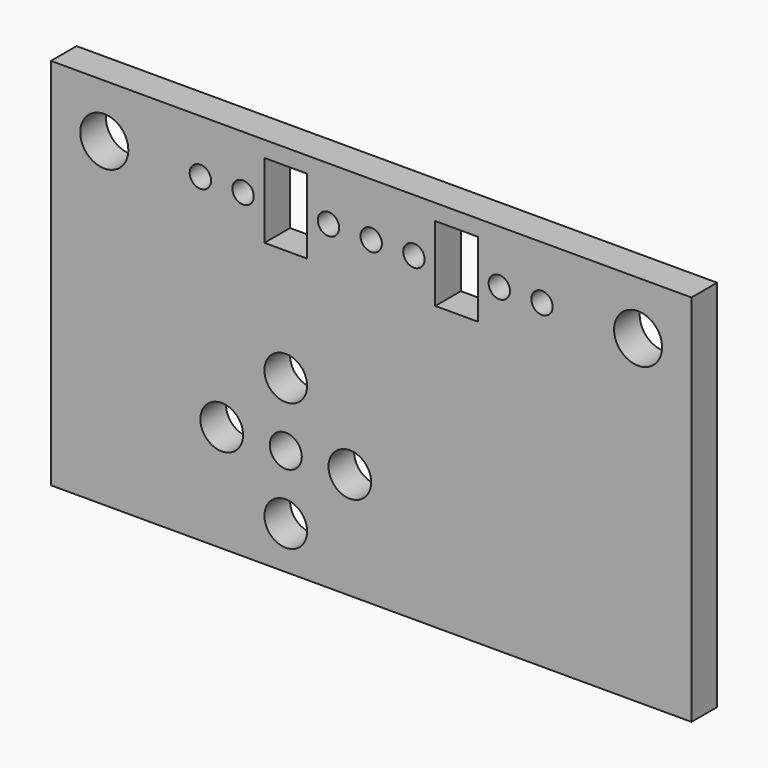
from build123d import *

# Parameters (mm, degrees)
SKETCH_W      = 60
SKETCH_H      = 3
PAD_DEPTH     = 35
SKETCH001_R   = 1.5
SKETCH001_R_2 = 2
SKETCH001_R_3 = 2.25
SKETCH001_R_4 = 1
SKETCH001_W   = 4
SKETCH001_H   = 7
POCKET_DEPTH  = 3


with BuildPart() as part:
    # Sketch → Pad (new body)
    with BuildSketch(Plane.XY):
        with Locations((30, 1.5)):
            Rectangle(SKETCH_W, SKETCH_H)
    extrude(amount=PAD_DEPTH)

    # Sketch001 → Pocket (cut)
    with BuildSketch(Plane.XZ):
        with Locations((22, 10)):
            Circle(SKETCH001_R)
        with Locations((28, 10)):
            Circle(SKETCH001_R_2)
        with Locations((22, 16)):
            Circle(SKETCH001_R_2)
        with Locations((16, 10)):
            Circle(SKETCH001_R_2)
        with Locations((22, 4)):
            Circle(SKETCH001_R_2)
        with Locations((5, 30)):
            Circle(SKETCH001_R_3)
        with Locations((55, 30)):
            Circle(SKETCH001_R_3)
        with Locations((14, 30)):
            Circle(SKETCH001_R_4)
        with Locations((18, 30)):
            Circle(SKETCH001_R_4)
        with Locations((26, 30)):
            Circle(SKETCH001_R_4)
        with Locations((30, 30)):
            Circle(SKETCH001_R_4)
        with Locations((34, 30)):
            Circle(SKETCH001_R_4)
        with Locations((42, 30)):
            Circle(SKETCH001_R_4)
        with Locations((46, 30)):
            Circle(SKETCH001_R_4)
        with Locations((22, 30)):
            Rectangle(SKETCH001_W, SKETCH001_H)
        with Locations((38, 30)):
            Rectangle(SKETCH001_W, SKETCH001_H)
    extrude(amount=-POCKET_DEPTH, mode=Mode.SUBTRACT)


solid = part.part
